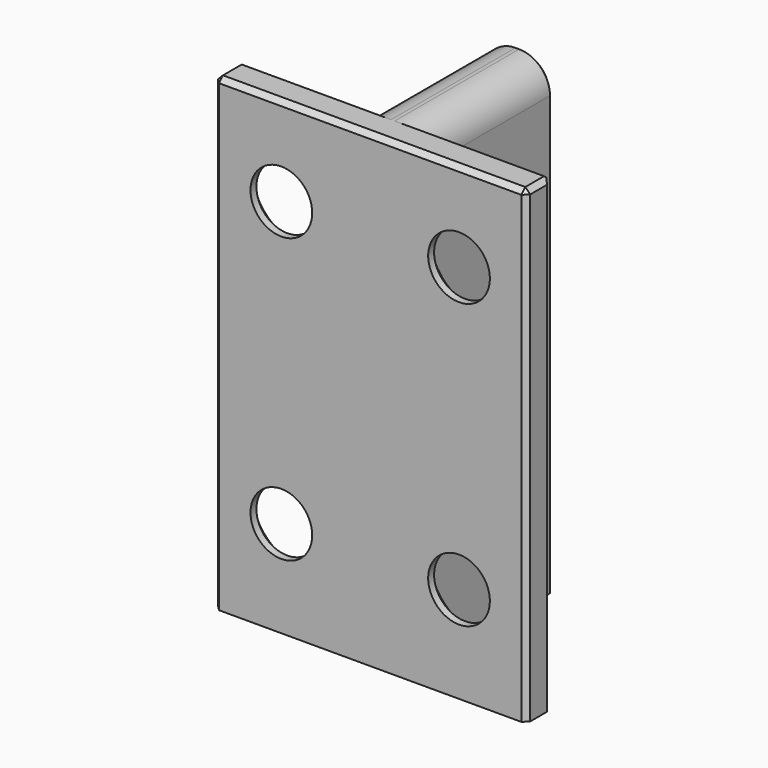
from build123d import *

# Parameters (mm, degrees)
F1_DEPTH = 38
F2_R     = 2.5
F3_DEPTH = 25
F4_SIZE  = 1.9
F5_R     = 2.5
F6_SIZE  = 0.4
F7_SIZE  = 0.2


with BuildPart() as f1:
    # F0 (on Top) → F1 (new body)
    with BuildSketch(Plane.XY):
        Polygon((2.65, 15.3), (0, 15.3), (-2.65, 15.3), (-2.65, 2.5), (-12.65, 2.5), (-12.65, 0), (0, 0), (12.65, 0), (12.65, 2.5), (2.65, 2.5), align=None)
    extrude(amount=F1_DEPTH)

    # F2 (on Front) → F3 (cut)
    with BuildSketch(Plane.XZ):
        with Locations((-7.2, 30.8)):
            Circle(F2_R)
        with Locations((-7.2, 7.8)):
            Circle(F2_R)
        with Locations((7.2, 7.8)):
            Circle(F2_R)
        with Locations((7.2, 30.8)):
            Circle(F2_R)
    extrude(amount=-F3_DEPTH, mode=Mode.SUBTRACT)

    # F4
    f4_edges = [f1.edges().sort_by_distance(p)[0] for p in [
        (4.7, 2.5, 7.8),
        (4.7, 2.5, 30.8),
        (-9.7, 2.5, 7.8),
        (-9.7, 2.5, 30.8),
    ]]
    chamfer(f4_edges, length=F4_SIZE)

    # F5
    f5_edges = [f1.edges().sort_by_distance(p)[0] for p in [
        (-2.65, 8.9, 38),
        (2.65, 8.9, 38),
    ]]
    fillet(f5_edges, radius=F5_R)

    # F6
    f6_edges = [f1.edges().sort_by_distance(p)[0] for p in [
        (-2.65, 15.3, 17.75),
        (2.65, 15.3, 17.75),
        (7.65, 2.5, 0),
        (12.65, 2.5, 19),
        (0, 0, 38),
        (12.65, 0, 19),
        (-12.65, 2.5, 19),
        (-12.65, 0, 19),
        (-12.65, 1.25, 38),
        (12.65, 1.25, 38),
    ]]
    chamfer(f6_edges, length=F6_SIZE)

    # F7
    f7_edges = [f1.edges().sort_by_distance(p)[0] for p in [
        (7.45, 2.5, 38),
        (-7.45, 2.5, 38),
    ]]
    chamfer(f7_edges, length=F7_SIZE)


solid = f1.part
